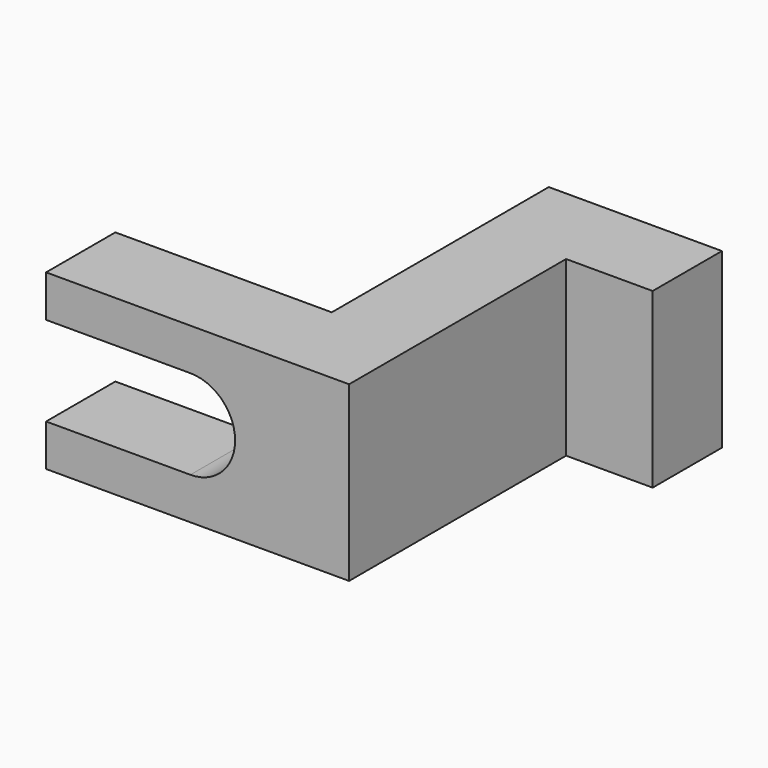
from build123d import *

# Parameters (mm, degrees)
PAD_DEPTH    = 12
POCKET_DEPTH = 6


with BuildPart() as part:
    # Sketch → Pad (new body)
    with BuildSketch(Plane.XY):
        Polygon((0, 0), (21, 0), (21, 18.8), (27, 18.8), (27, 24.8), (15, 24.8), (15, 6), (0, 6), align=None)
    extrude(amount=PAD_DEPTH)

    # Sketch002 (on Face1 of Pad) → Pocket (cut)
    with BuildSketch(Plane.XZ):
        with BuildLine():
            Line((0, 9.1), (10, 9.1))
            ThreePointArc((10, 2.9), (13.1, 6), (10, 9.1))
            Line((10, 2.9), (0, 2.9))
            ThreePointArc((0, 9.1), (-3.1, 6), (0, 2.9))
        make_face()
    extrude(amount=-POCKET_DEPTH, mode=Mode.SUBTRACT)


solid = part.part
